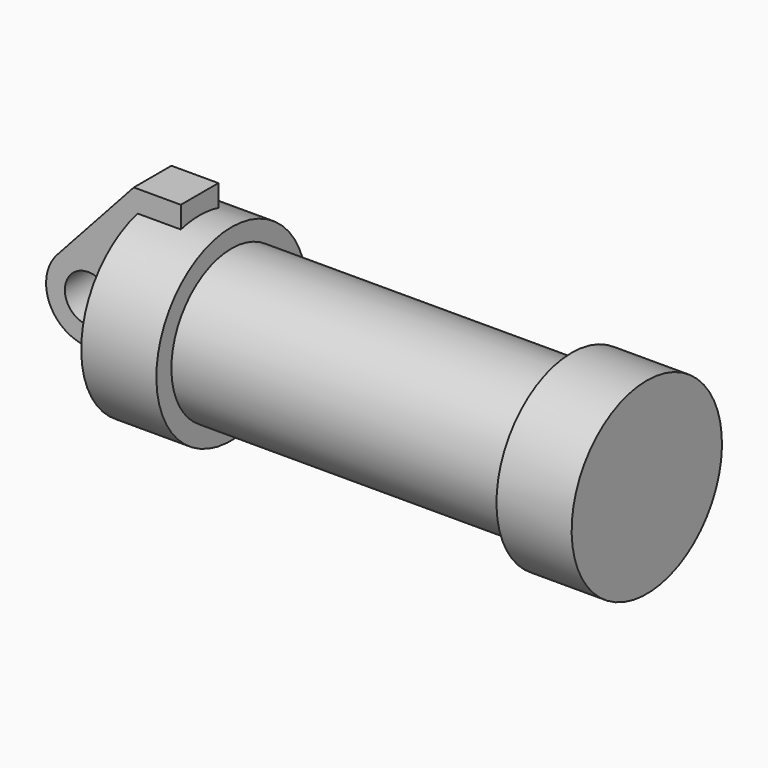
from build123d import *

# Parameters (mm, degrees)
F0_W     = 5.842
F0_H     = 12.7
F0_R     = 3.175
F2_DEPTH = 3.175


with BuildPart() as f1:
    # F0 (on Front) → F1 (revolve)
    with BuildSketch(Plane.XZ):
        Polygon((5.842, 12.7), (5.842, 0), (66.294, 0), (66.294, 12.7), (56.134, 12.7), (56.134, 10.16), (10.16, 10.16), (10.16, 12.7), align=None)
        with Locations((2.921, 6.35)):
            Rectangle(F0_W, F0_H)
    revolve(axis=Axis((33.147, 0, 0), (-1, 0, 0)))

    # F0 (on Front) → F2 (join, symmetric)
    with BuildSketch(Plane.XZ):
        with BuildLine():
            Line((-0.9398, 0), (0, 0))
            Line((0, 0), (0, 12.7))
            Line((0, 12.7), (5.842, 12.7))
            Line((5.842, 12.7), (5.842, 15.24))
            Line((5.842, 15.24), (-0.508, 15.24))
            Line((-0.508, 15.24), (-10.8806298187, 3.8475430269))
            ThreePointArc((-10.8806298187, 3.8475430269), (-4.5919612295, 5.3297205562), (-0.9398, 0))
        make_face()
        with BuildLine():
            Line((5.842, 0), (0, 0))
            Line((0, 0), (-0.9398, 0))
            ThreePointArc((-0.9398, 0), (-3.1957909266, -4.5493385486), (-8.1826630726, -5.5069827884))
            Line((-8.1826630726, -5.5069827884), (5.842, -9.398))
            Line((5.842, -9.398), (5.842, 0))
        make_face()
        with BuildLine():
            ThreePointArc((-8.1826630726, -5.5069827884), (-3.1957909266, -4.5493385486), (-0.9398, 0))
            ThreePointArc((-0.9398, 0), (-4.5919612295, 5.3297205562), (-10.8806298187, 3.8475430269))
            ThreePointArc((-10.8806298187, 3.8475430269), (-12.1459778134, -1.5837270034), (-8.1826630726, -5.5069827884))
        make_face()
        with Locations((-6.6548, 0)):
            Circle(F0_R, mode=Mode.SUBTRACT)
        with Locations((2.921, 6.35)):
            Rectangle(F0_W, F0_H)
    extrude(amount=F2_DEPTH, both=True)


solid = f1.part
